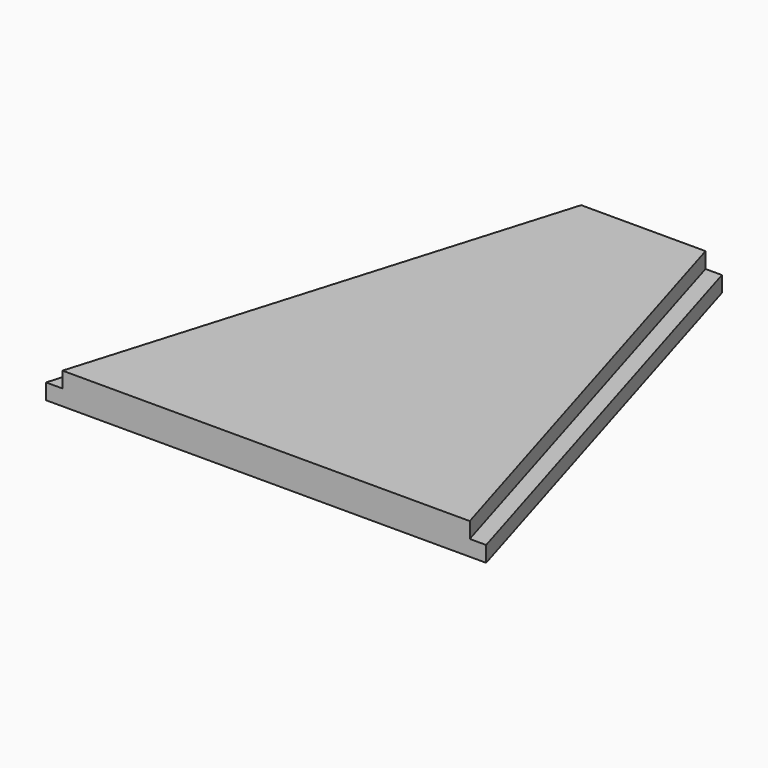
from build123d import *

# Parameters (mm, degrees)
F1_DEPTH = 10
F3_DEPTH = 5
F4_DEPTH = 5


with BuildPart() as f1:
    # F0 (on Top) → F1 (new body)
    with BuildSketch(Plane.XY):
        Polygon((44.978361, 74.922603), (-5.021639, 74.922603), (-50.021639, -75.077397), (-5.021639, -75.077397), (44.978361, -75.077397), (89.978361, -75.077397), align=None)
    extrude(amount=F1_DEPTH)

    # F2 (on face) → F3 (cut)
    with BuildSketch(Plane.XY.offset(10)):
        Polygon((44.978361, 74.922603), (39.758208, 74.922603), (84.758208, -75.077397), (89.978361, -75.077397), align=None)
        Polygon((-44.801485, -75.077397), (0.198515, 74.922603), (-5.021639, 74.922603), (-50.021639, -75.077397), align=None)
    extrude(amount=-F3_DEPTH, mode=Mode.SUBTRACT)

    # F2 (on face) → F4 (cut)
    with BuildSketch(Plane.XY.offset(10)):
        Polygon((44.978361, 74.922603), (39.758208, 74.922603), (84.758208, -75.077397), (89.978361, -75.077397), align=None)
        Polygon((-44.801485, -75.077397), (0.198515, 74.922603), (-5.021639, 74.922603), (-50.021639, -75.077397), align=None)
    extrude(amount=-F4_DEPTH, mode=Mode.SUBTRACT)


solid = f1.part
